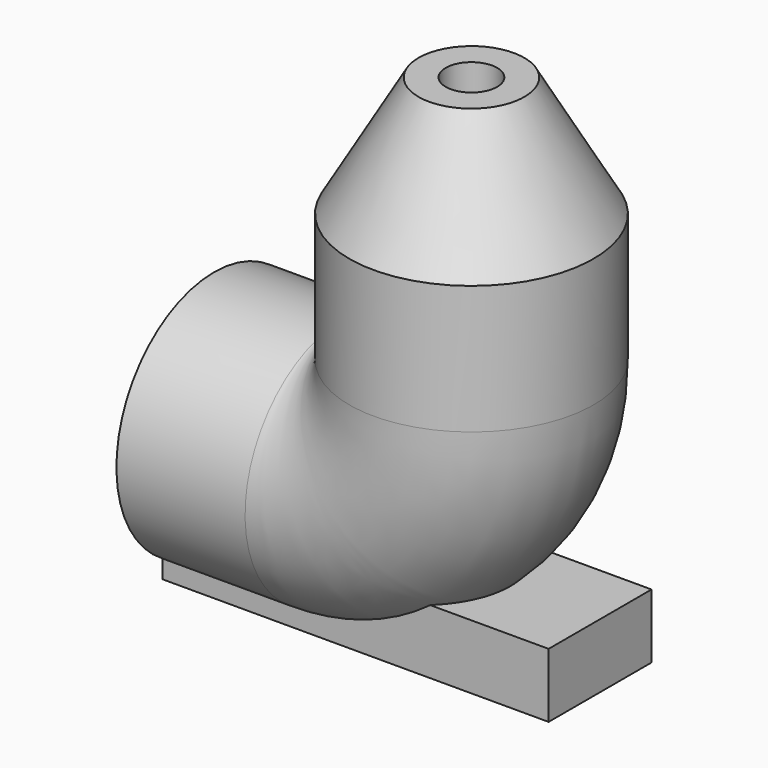
from build123d import *

# Parameters (mm, degrees)
F0_R     = 6.0325
F0_R_2   = 2.8575
F6_DEPTH = 19.05


with BuildPart() as f2:
    # F2: sweep along a path in F1
    with BuildLine(Plane.XZ) as f2_path:
        Line((0, 0), (6.35, 0))
        ThreePointArc((6.35, 0), (10.8401280605, 1.8598719395), (12.7, 6.35))
        Line((12.7, 6.35), (12.7, 12.7))
    # F0 (on Right) → F2 (sweep)
    with BuildSketch(Plane.YZ):
        Circle(F0_R)
        Circle(F0_R_2, mode=Mode.SUBTRACT)
    sweep(path=f2_path.line)

    # F3 (on Front) → F4 (revolve)
    with BuildSketch(Plane.XZ):
        Polygon((10.0880871047, 18.624630657), (6.6675, 12.7), (9.8425, 12.7), (11.43, 15.449630657), (11.43, 18.624630657), align=None)
    revolve(axis=Axis((12.7, 0, 16.4198061287), (0, 0, 1)))

    # F5 (on Right) → F6 (join)
    with BuildSketch(Plane.YZ):
        with BuildLine():
            Line((0, -6.0325), (0, -2.8575))
            Line((0, -2.8575), (-3.175, -2.8575))
            Line((-3.175, -2.8575), (-3.175, -5.1293694788))
            ThreePointArc((-3.175, -5.1293694788), (-1.6504749118, -5.8023261556), (0, -6.0325))
        make_face()
        with BuildLine():
            Line((3.175, -2.8575), (0, -2.8575))
            Line((0, -2.8575), (0, -6.0325))
            ThreePointArc((0, -6.0325), (1.6504749118, -5.8023261556), (3.175, -5.1293694788))
            Line((3.175, -5.1293694788), (3.175, -2.8575))
        make_face()
        with BuildLine():
            ThreePointArc((3.175, -5.1293694788), (1.6504749118, -5.8023261556), (0, -6.0325))
            Line((0, -6.0325), (3.175, -6.0325))
            Line((3.175, -6.0325), (3.175, -5.1293694788))
        make_face()
        with BuildLine():
            Line((-3.175, -6.0325), (0, -6.0325))
            ThreePointArc((0, -6.0325), (-1.6504749118, -5.8023261556), (-3.175, -5.1293694788))
            Line((-3.175, -5.1293694788), (-3.175, -6.0325))
        make_face()
    extrude(amount=F6_DEPTH)


solid = f2.part
